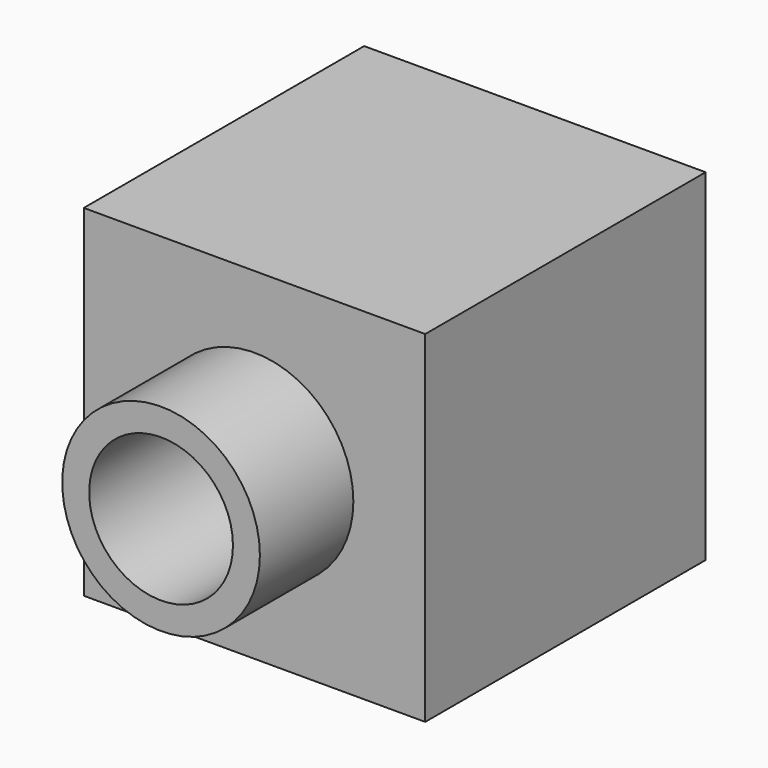
from build123d import *

# Parameters (mm, degrees)
F0_W     = 38
F0_H     = 38
F1_DEPTH = 39
F2_R     = 11
F2_R_2   = 8
F3_DEPTH = 13
F4_R     = 8
F5_DEPTH = 30
F6_R     = 14.1
F7_DEPTH = 23


with BuildPart() as f1:
    # F0 (on Front) → F1 (new body)
    with BuildSketch(Plane.XZ):
        Rectangle(F0_W, F0_H)
    extrude(amount=F1_DEPTH)

    # F2 (on face) → F3 (join)
    with BuildSketch(Plane.XZ.offset(39)):
        Circle(F2_R)
        Circle(F2_R_2, mode=Mode.SUBTRACT)
    extrude(amount=F3_DEPTH)

    # F4 (on face) → F5 (cut)
    with BuildSketch(Plane.XZ.offset(39)):
        Circle(F4_R)
    extrude(amount=-F5_DEPTH, mode=Mode.SUBTRACT)

    # F6 (on face) → F7 (cut)
    with BuildSketch(Plane(origin=(-19, 0, 0), x_dir=(0, -1, 0), z_dir=(-1, 0, 0))):
        with Locations((19, 0)):
            Circle(F6_R)
    extrude(amount=-F7_DEPTH, mode=Mode.SUBTRACT)


solid = f1.part
